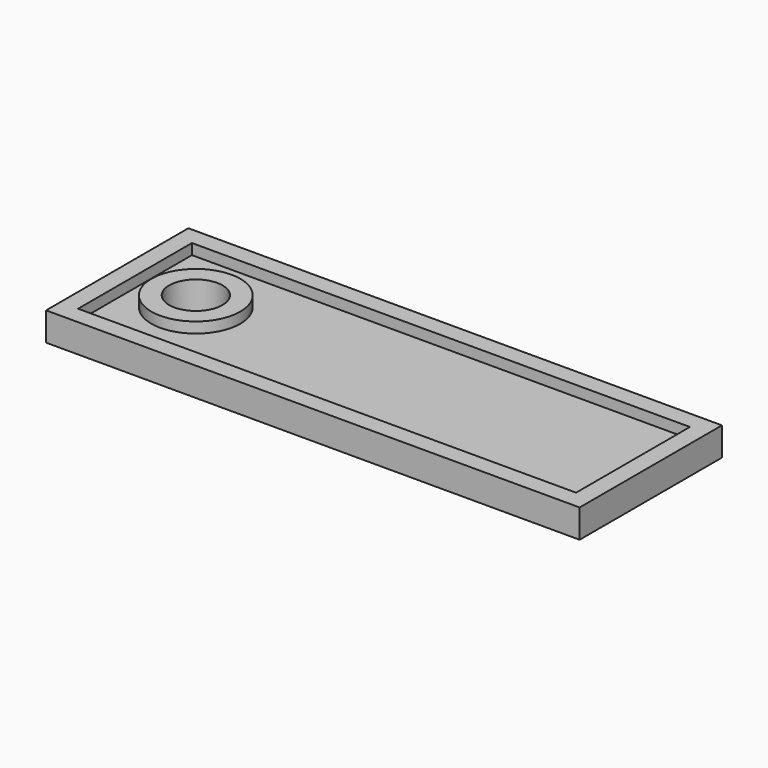
from build123d import *

# Parameters (mm, degrees)
F0_W     = 75
F0_H     = 25
F0_R     = 3.75
F1_DEPTH = 4
F2_T     = -2.5


with BuildPart() as f1:
    # F0 (on Top) → F1 (new body)
    with BuildSketch(Plane.XY):
        with Locations((-30.5622011423, 12.5)):
            Rectangle(F0_W, F0_H)
        with Locations((-57.4769340456, 13.0809573457)):
            Circle(F0_R, mode=Mode.SUBTRACT)
    extrude(amount=F1_DEPTH)

    # F2
    f2_openings = [f1.faces().sort_by_distance(p)[0] for p in [
        (-29.912735, 12.485981, 4),
    ]]
    offset(amount=F2_T, openings=f2_openings)


solid = f1.part
